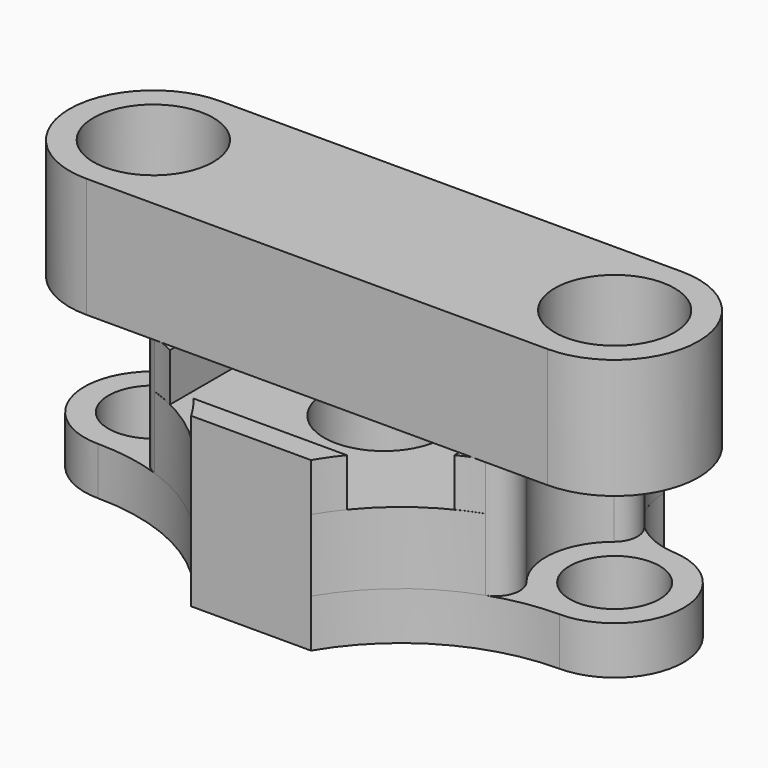
from build123d import *

# Parameters (mm, degrees)
F0_R     = 4.7625
F0_R_2   = 6.35
F1_DEPTH = 5.08
F2_R     = 6.35
F3_DEPTH = 7.62
F5_DEPTH = 5.08
F6_R     = 6.35
F6_R_2   = 6.9469
F7_DEPTH = 12.7
F8_R     = 6.9469
F9_DEPTH = 2.54


with BuildPart() as f1:
    # F0 (on Top) → F1 (new body)
    with BuildSketch(Plane.XY):
        with BuildLine():
            ThreePointArc((-17.6149, 15.0749), (-19.725944, 9.73719), (-24.916914, 7.287397))
            ThreePointArc((-24.916914, 7.287397), (-31.746223, -0.234828), (-24.4475, -7.3025))
            ThreePointArc((-24.4475, -7.3025), (-14.032786, -10.061533), (-6.35, -17.6149))
            Line((-6.35, -17.6149), (6.35, -17.6149))
            ThreePointArc((6.35, -17.6149), (14.032786, -10.061533), (24.4475, -7.3025))
            ThreePointArc((24.4475, -7.3025), (31.746223, -0.234828), (24.916914, 7.287397))
            ThreePointArc((24.916914, 7.287397), (19.725944, 9.73719), (17.6149, 15.0749))
            Line((17.6149, 15.0749), (-17.6149, 15.0749))
        make_face()
        with Locations((-24.4475, 0)):
            Circle(F0_R, mode=Mode.SUBTRACT)
        Circle(F0_R_2, mode=Mode.SUBTRACT)
        with Locations((24.4475, 0)):
            Circle(F0_R, mode=Mode.SUBTRACT)
    extrude(amount=F1_DEPTH)

    # F2 (on face) → F3 (join)
    with BuildSketch(Plane.XY.offset(5.08)):
        with BuildLine():
            ThreePointArc((6.35, -17.6149), (11.133045, -12.052328), (17.535418, -8.47052))
            ThreePointArc((17.535418, -8.47052), (19.137919, -6.787196), (18.699963, -4.5047))
            ThreePointArc((18.699963, -4.5047), (17.19028, 0.811951), (19.837601, 5.663509))
            ThreePointArc((19.837601, 5.663509), (20.771884, 7.525985), (19.998365, 9.460765))
            ThreePointArc((19.998365, 9.460765), (18.235439, 12.025333), (17.6149, 15.0749))
            Line((17.6149, 15.0749), (-17.6149, 15.0749))
            ThreePointArc((-17.6149, 15.0749), (-18.235439, 12.025333), (-19.998365, 9.460765))
            ThreePointArc((-19.998365, 9.460765), (-20.771884, 7.525985), (-19.837601, 5.663509))
            ThreePointArc((-19.837601, 5.663509), (-17.19028, 0.811951), (-18.699963, -4.5047))
            ThreePointArc((-18.699963, -4.5047), (-19.137919, -6.787196), (-17.535418, -8.47052))
            ThreePointArc((-17.535418, -8.47052), (-11.133045, -12.052328), (-6.35, -17.6149))
            Line((-6.35, -17.6149), (6.35, -17.6149))
        make_face()
        Circle(F2_R, mode=Mode.SUBTRACT)
    extrude(amount=F3_DEPTH)

    # F4 (on face) → F5 (join)
    with BuildSketch(Plane.XY.offset(12.7)):
        with BuildLine():
            Line((15.0749, 15.0749), (15.0749, -9.505867))
            ThreePointArc((15.0749, -9.505867), (16.288719, -8.949124), (17.535418, -8.47052))
            ThreePointArc((17.535418, -8.47052), (19.137919, -6.787196), (18.699963, -4.5047))
            ThreePointArc((18.699963, -4.5047), (17.19028, 0.811951), (19.837601, 5.663509))
            ThreePointArc((19.837601, 5.663509), (20.771884, 7.525985), (19.998365, 9.460765))
            ThreePointArc((19.998365, 9.460765), (18.235439, 12.025333), (17.6149, 15.0749))
            Line((17.6149, 15.0749), (15.0749, 15.0749))
        make_face()
        with BuildLine():
            Line((-15.0749, 15.0749), (-17.6149, 15.0749))
            ThreePointArc((-17.6149, 15.0749), (-18.235439, 12.025333), (-19.998365, 9.460765))
            ThreePointArc((-19.998365, 9.460765), (-20.771884, 7.525985), (-19.837601, 5.663509))
            ThreePointArc((-19.837601, 5.663509), (-17.19028, 0.811951), (-18.699963, -4.5047))
            ThreePointArc((-18.699963, -4.5047), (-19.137919, -6.787196), (-17.535418, -8.47052))
            ThreePointArc((-17.535418, -8.47052), (-16.288719, -8.949124), (-15.0749, -9.505867))
            Line((-15.0749, -9.505867), (-15.0749, 15.0749))
        make_face()
        with BuildLine():
            ThreePointArc((6.35, -17.6149), (7.188145, -16.312298), (8.119868, -15.0749))
            Line((8.119868, -15.0749), (-8.119868, -15.0749))
            ThreePointArc((-8.119868, -15.0749), (-7.188145, -16.312298), (-6.35, -17.6149))
            Line((-6.35, -17.6149), (6.35, -17.6149))
        make_face()
    extrude(amount=F5_DEPTH)


with BuildPart() as f7:
    # F6 (on face) → F7 (new body)
    with BuildSketch(Plane.XY.offset(17.78)):
        with BuildLine():
            Line((-24.4475, -8.89), (24.4475, -8.89))
            ThreePointArc((24.4475, -8.89), (33.3375, 0), (24.4475, 8.89))
            Line((24.4475, 8.89), (-24.4475, 8.89))
            ThreePointArc((-24.4475, 8.89), (-33.3375, 0), (-24.4475, -8.89))
        make_face()
        with Locations((-24.4475, 0)):
            Circle(F6_R, mode=Mode.SUBTRACT)
        Circle(F6_R_2, mode=Mode.SUBTRACT)
        with Locations((24.4475, 0)):
            Circle(F6_R, mode=Mode.SUBTRACT)
    extrude(amount=F7_DEPTH)

    # F8 (on face) → F9 (join)
    with BuildSketch(Plane.XY.offset(30.48)):
        Circle(F8_R)
    extrude(amount=-F9_DEPTH)


solid = Compound([f1.part, f7.part])
